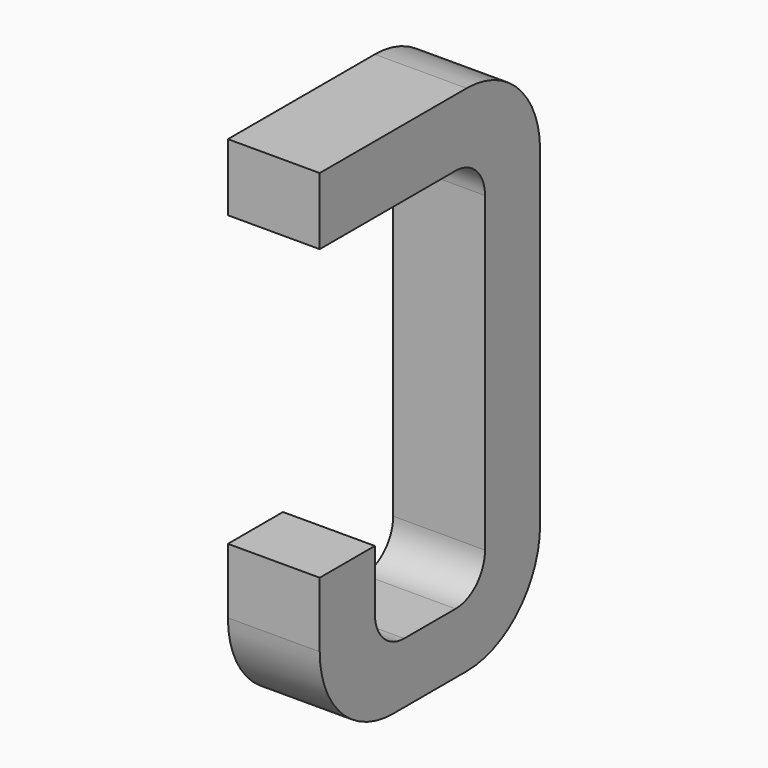
from build123d import *

# Parameters (mm, degrees)
BOX079_W     = 0.5
BOX079_H     = 1.5
BOX079_DEPTH = 2.795
FILLET185_R  = 0.5
FILLET192_R  = 0.5
FILLET197_R  = 0.5
BOX101_W     = 0.75
BOX101_H     = 2.1
BOX101_DEPTH = 1
FILLET205_R  = 0.2
FILLET199_R  = 0.2
FILLET198_R  = 0.2
FILLET210_R  = 0.2
BOX096_W     = 1
BOX096_H     = 1.575
BOX096_DEPTH = 3


with BuildPart() as part:
    # Box079 → Box079 (join)
    with BuildSketch(Plane(origin=(-0.25, 11.125, 0), x_dir=(1, 0, 0), z_dir=(0, 0, 1))):
        with Locations((0.25, 0.75)):
            Rectangle(BOX079_W, BOX079_H)
    extrude(amount=BOX079_DEPTH)

    # Fillet185
    fillet185_edges = [part.edges().sort_by_distance(p)[0] for p in [
        (0, 12.625, 0),
    ]]
    fillet(fillet185_edges, radius=FILLET185_R)

    # Fillet192
    fillet192_edges = [part.edges().sort_by_distance(p)[0] for p in [
        (0, 12.625, 2.795),
    ]]
    fillet(fillet192_edges, radius=FILLET192_R)

    # Fillet197
    fillet197_edges = [part.edges().sort_by_distance(p)[0] for p in [
        (0, 11.125, 0),
    ]]
    fillet(fillet197_edges, radius=FILLET197_R)

    # Box101 → Box101 (cut)
    with BuildSketch(Plane(origin=(-0.5, 11.5, 0.33), x_dir=(0, 1, 0), z_dir=(1, 0, 0))):
        with Locations((0.375, 1.05)):
            Rectangle(BOX101_W, BOX101_H)
    extrude(amount=BOX101_DEPTH, mode=Mode.SUBTRACT)

    # Fillet205
    fillet205_edges = [part.edges().sort_by_distance(p)[0] for p in [
        (0, 11.5, 0.33),
    ]]
    fillet(fillet205_edges, radius=FILLET205_R)

    # Fillet199
    fillet199_edges = [part.edges().sort_by_distance(p)[0] for p in [
        (0, 12.25, 0.33),
    ]]
    fillet(fillet199_edges, radius=FILLET199_R)

    # Fillet198
    fillet198_edges = [part.edges().sort_by_distance(p)[0] for p in [
        (0, 11.5, 2.43),
    ]]
    fillet(fillet198_edges, radius=FILLET198_R)

    # Fillet210
    fillet210_edges = [part.edges().sort_by_distance(p)[0] for p in [
        (0, 12.25, 2.43),
    ]]
    fillet(fillet210_edges, radius=FILLET210_R)

    # Box096 → Box096 (cut)
    with BuildSketch(Plane(origin=(-1, 11, 0.855), x_dir=(0, 1, 0), z_dir=(1, 0, 0))):
        with Locations((0.5, 0.7875)):
            Rectangle(BOX096_W, BOX096_H)
    extrude(amount=BOX096_DEPTH, mode=Mode.SUBTRACT)


with BuildPart() as part_1:
    # Body026 placement: moved
    add(part.part.moved(Location((-6.35, 0, 0))))


solid = part_1.part
